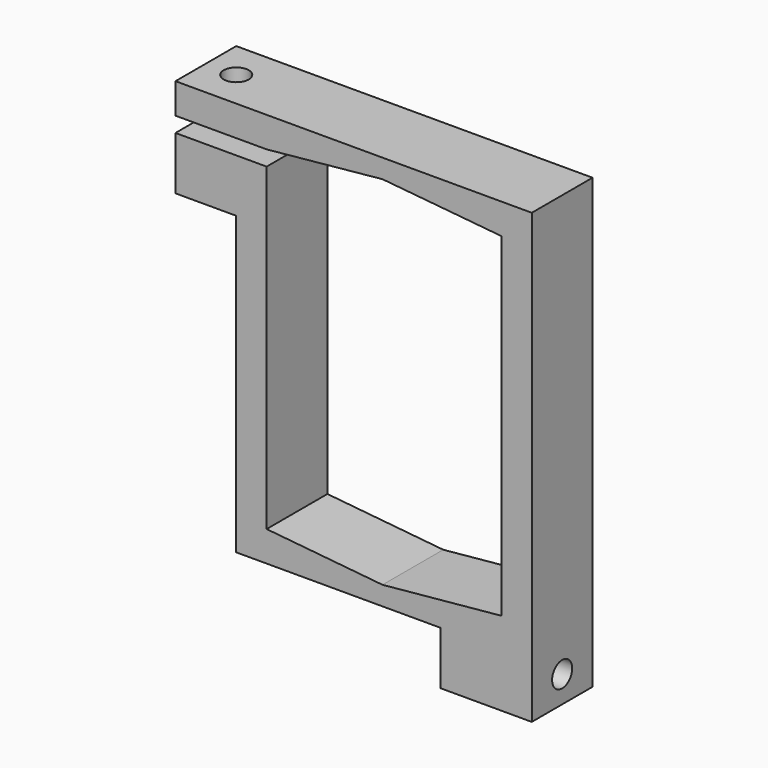
from build123d import *

# Parameters (mm, degrees)
F1_DEPTH       = 10
F3_D           = 3.3
F3_CSINK_D     = 6
F3_CSINK_ANGLE = 90
F5_D           = 3.3
F5_CSINK_D     = 6
F5_CSINK_ANGLE = 90


with BuildPart() as f1:
    # F0 (on Front) → F1 (new body)
    with BuildSketch(Plane.XZ):
        Polygon((0, 44), (0, 0), (-15.65, -1.5), (-30.9, 0), (-30.9, 42), (-42.9, 42), (-42.9, 35), (-34.9, 35), (-34.9, -4), (-8, -4), (-8, -11), (4, -11), (4, 48), (-42.9, 48), (-42.9, 44), (-30.9, 44), (-15.65, 45.5), align=None)
    extrude(amount=F1_DEPTH)

    # F3 (through all)
    with Locations(Plane(origin=(0, 0, 35), x_dir=(1, 0, 0), z_dir=(0, 0, -1))):
        with Locations((-38.9, 5)):
            CounterSinkHole(F3_D / 2, F3_CSINK_D / 2, counter_sink_angle=F3_CSINK_ANGLE)

    # F5 (through all)
    with Locations(Plane(origin=(-8, 0, 0), x_dir=(0, -1, 0), z_dir=(-1, 0, 0))):
        with Locations((5, -7.5)):
            CounterSinkHole(F5_D / 2, F5_CSINK_D / 2, counter_sink_angle=F5_CSINK_ANGLE)


solid = f1.part
